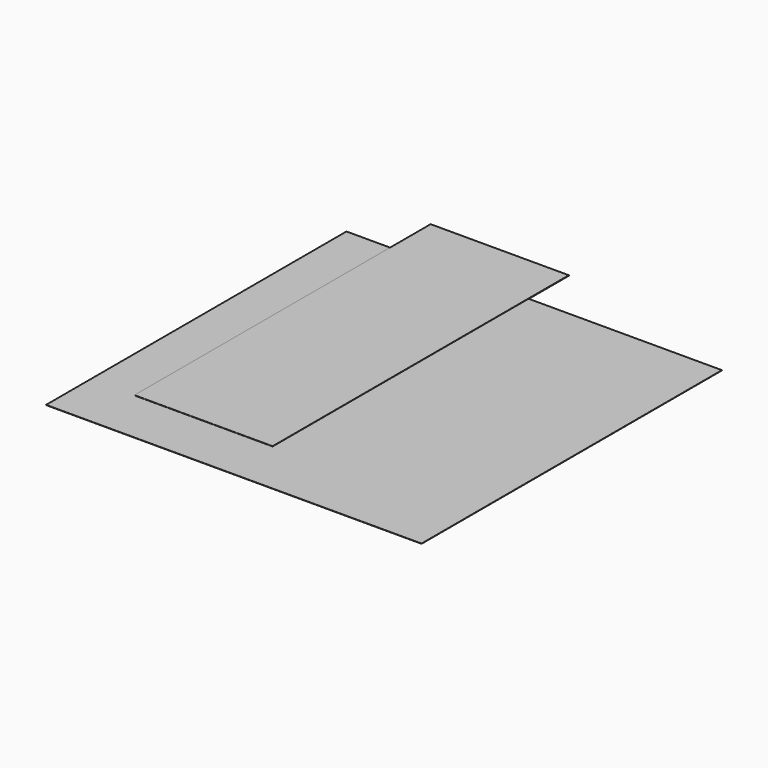
from build123d import *

# Parameters (mm, degrees)
F0_W     = 1828.8
F0_H     = 1828.8
F1_DEPTH = 1.27
F2_W     = 673.1
F2_H     = 1803.4
F3_DEPTH = 2.54


with BuildPart() as f1:
    # F0 (on Top) → F1 (new body)
    with BuildSketch(Plane.XY):
        Rectangle(F0_W, F0_H)
    extrude(amount=F1_DEPTH)


with BuildPart() as f3:
    # F2 (on face) → F3 (new body)
    with BuildSketch(Plane.XY):
        with Locations((-363.866042, 257.66014)):
            Rectangle(F2_W, F2_H)
    extrude(amount=F3_DEPTH)


solid = Compound([f1.part, f3.part])
